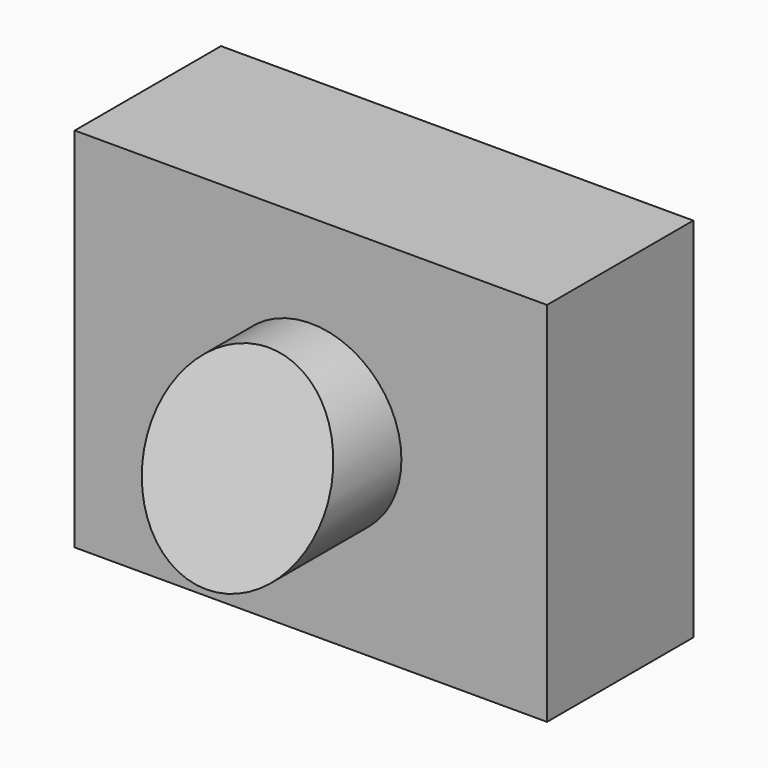
from build123d import *

# Parameters (mm, degrees)
F0_W          = 65.6240805984
F0_H          = 51.0048568249
F1_DEPTH      = 25.4
F2_R          = 12.5804275278
F3_DEPTH      = 25.4
F5_DEPTH      = 25.4
F5_DEPTH_BACK = 25.4


with BuildPart() as f1:
    # F0 (on Front) → F1 (new body)
    with BuildSketch(Plane.XZ):
        Rectangle(F0_W, F0_H)
    extrude(amount=F1_DEPTH)

    # F2 (on face) → F3 (join)
    with BuildSketch(Plane.XZ.offset(25.4)):
        Circle(F2_R)
    extrude(amount=F3_DEPTH)

    # F4 (on Right) → F5 (cut, two sides)
    with BuildSketch(Plane.YZ) as f5_sk:
        Polygon((-51.2365475297, -13.4750008583), (-43.6296612024, -12.7267818898), (-32.5310863554, 12.9620563239), (-51.2365475297, 12.9620563239), align=None)
    extrude(amount=-F5_DEPTH, mode=Mode.SUBTRACT)
    extrude(f5_sk.sketch, amount=F5_DEPTH_BACK, mode=Mode.SUBTRACT)


solid = f1.part
